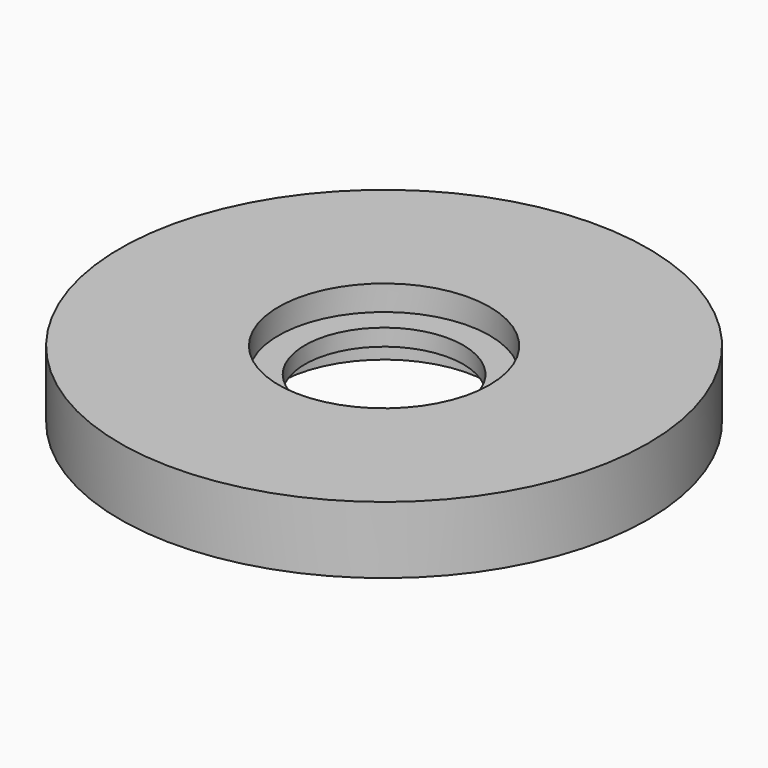
from build123d import *

# Parameters (mm, degrees)
F0_R     = 50
F0_R_2   = 20
F1_DEPTH = 12.7
F3_R     = 20
F3_R_2   = 15
F4_DEPTH = 1.5875


with BuildPart() as f1:
    # F0 (on Top) → F1 (new body)
    with BuildSketch(Plane.XY):
        Circle(F0_R)
        Circle(F0_R_2, mode=Mode.SUBTRACT)
    extrude(amount=F1_DEPTH)

    # F3 (on mid) → F4 (join, symmetric)
    with BuildSketch(Plane(origin=(0, 0, 6.35), x_dir=(1, 0, 0), z_dir=(0, 0, -1))):
        Circle(F3_R)
        Circle(F3_R_2, mode=Mode.SUBTRACT)
    extrude(amount=F4_DEPTH, both=True)


solid = f1.part
